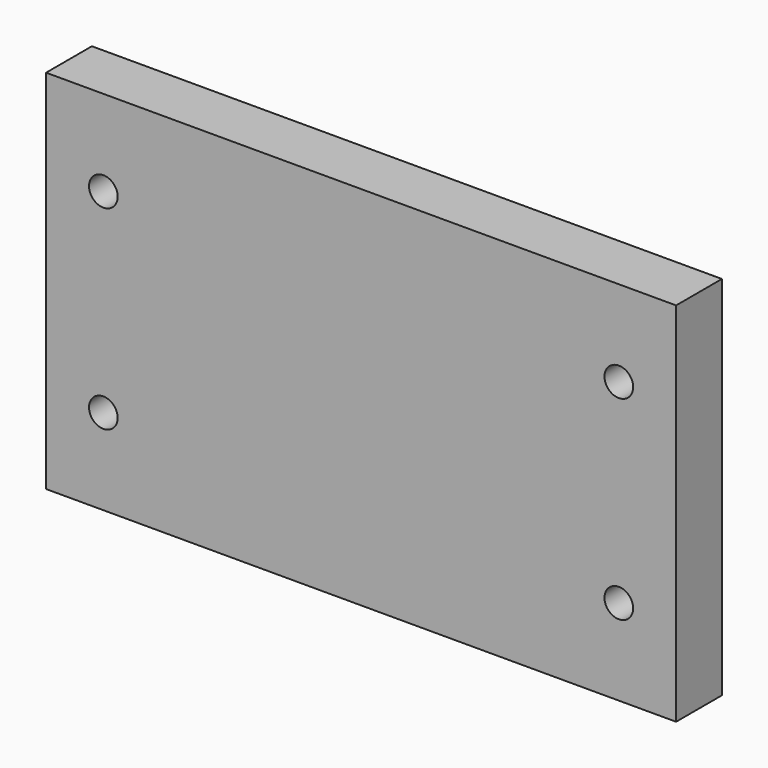
from build123d import *

# Parameters (mm, degrees)
F0_W     = 69.85
F0_H     = 81.28
F0_R     = 3.175
F1_DEPTH = 12.7


with BuildPart() as f1:
    # F0 (on Front) → F1 (new body)
    with BuildSketch(Plane.XZ):
        with Locations((-33.8316962153, -13.8850318794)):
            Rectangle(F0_W, F0_H)
        with Locations((-56.0566962153, -35.4750318794)):
            Circle(F0_R, mode=Mode.SUBTRACT)
        with Locations((-56.0566962153, 7.7049681206)):
            Circle(F0_R, mode=Mode.SUBTRACT)
        with Locations((36.0183037847, -13.8850318794)):
            Rectangle(F0_W, F0_H)
        with Locations((58.2433037847, -35.4750318794)):
            Circle(F0_R, mode=Mode.SUBTRACT)
        with Locations((58.2433037847, 7.7049681206)):
            Circle(F0_R, mode=Mode.SUBTRACT)
    extrude(amount=F1_DEPTH)


solid = f1.part
